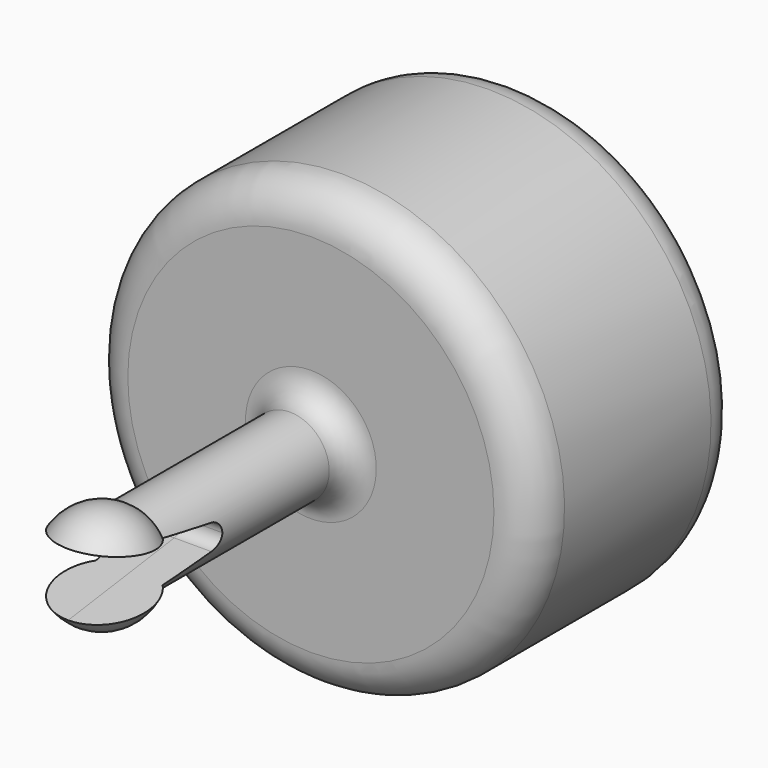
from build123d import *

# Parameters (mm, degrees)
F3_DEPTH      = 42.5010001
F3_DEPTH_BACK = 42.5010001


with BuildPart() as f1:
    # F0 (on Right) → F1 (revolve)
    with BuildSketch(Plane.YZ):
        with BuildLine():
            Line((45, 7.5), (6.6143782777, 7.5))
            ThreePointArc((6.6143782777, 7.5), (-4.1143782777, 9.1143782777), (-10, 0))
            Line((-10, 0), (70, 0))
            Line((70, 0), (70, 5))
            Line((70, 5), (61.1557394314, 5.773772537))
            ThreePointArc((61.1557394314, 5.773772537), (65.625310141, 11.7096195518), (72.395277335, 14.7721162952))
            Line((72.395277335, 14.7721162952), (90, 17.8763038889))
            Line((90, 17.8763038889), (90, 20))
            Line((90, 20), (92.5, 20))
            ThreePointArc((92.5, 20), (97.8033008589, 22.1966991411), (100, 27.5))
            Line((100, 27.5), (100, 35))
            ThreePointArc((100, 35), (97.8033008589, 40.3033008589), (92.5, 42.5))
            Line((92.5, 42.5), (57.5, 42.5))
            ThreePointArc((57.5, 42.5), (52.1966991411, 40.3033008589), (50, 35))
            Line((50, 35), (50, 12.5))
            ThreePointArc((50, 12.5), (48.5355339059, 8.9644660941), (45, 7.5))
        make_face()
    revolve(axis=Axis((0, 30, 0), (0, 1, 0)))

    # F2 (on Right) → F3 (cut, two sides)
    with BuildSketch(Plane.YZ) as f3_sk:
        with BuildLine():
            Line((17.3426832667, 2.4383181401), (-8, 6))
            ThreePointArc((-8, 6), (-10, 0), (-8, -6))
            Line((-8, -6), (17.3426832667, -2.4383181401))
            ThreePointArc((17.3426832667, -2.4383181401), (18.8583069757, -1.6154016088), (19.4622808884, 0))
            ThreePointArc((19.4622808884, 0), (18.8583069757, 1.6154016088), (17.3426832667, 2.4383181401))
        make_face()
    extrude(amount=-F3_DEPTH, mode=Mode.SUBTRACT)
    extrude(f3_sk.sketch, amount=F3_DEPTH_BACK, mode=Mode.SUBTRACT)


solid = f1.part
